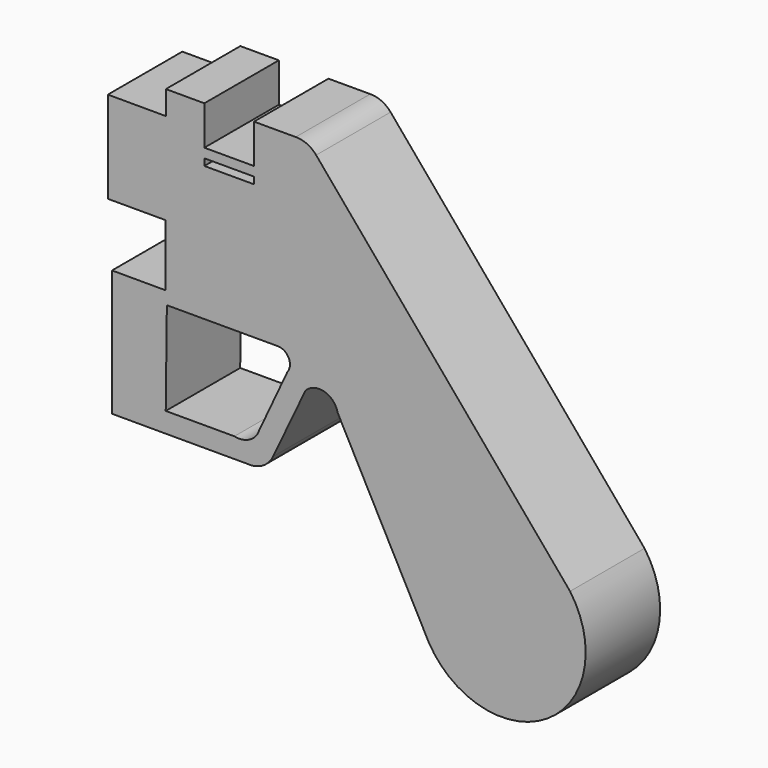
from build123d import *

# Parameters (mm, degrees)
F0_W     = 13.5431550443
F0_H     = 2.539999783
F1_DEPTH = 14.478
F2_DEPTH = 25.4
F3_DEPTH = 15.24


with BuildPart() as f1:
    # F0 (on Front) → F1 (new body)
    with BuildSketch(Plane.XZ):
        with BuildLine():
            Line((-35.7278846204, 60.0338317454), (-46.2333224714, 60.0338317454))
            Line((-46.2333224714, 60.0338317454), (-46.2412260565, 53.5373517857))
            Line((-46.2412260565, 53.5373517857), (-62.0638123778, 53.5566014653))
            Line((-62.0638123778, 53.5566014653), (-62.0638123778, 28.5179335624))
            Line((-62.0638123778, 28.5179335624), (-46.2716645559, 28.5179335624))
            Line((-46.2716645559, 28.5179335624), (-46.2921659325, 11.6664945766))
            Line((-46.2921659325, 11.6664945766), (-60.9269401373, 11.6842991698))
            Line((-60.9269401373, 11.6842991698), (-60.9269401373, -11.473370716))
            Line((-60.9269401373, -11.473370716), (-60.9269401373, -12.8805553541))
            Line((-60.9269401373, -12.8805553541), (-60.9269401373, -22.7496541921))
            Line((-60.9269401373, -22.7496541921), (-46.3340580463, -22.7674078196))
            Line((-46.3340580463, -22.7674078196), (-23.9646863192, -22.7674078196))
            ThreePointArc((-23.9646863192, -22.7674078196), (-19.834707978, -21.8336374971), (-16.9685035944, -18.7169853598))
            Line((-16.9685035944, -18.7169853598), (-8.1312218681, 0))
            ThreePointArc((-8.1312218681, 0), (-3.0133196127, 1.4278545799), (0.6314046332, -2.4383680429))
            Line((0.6314046332, -2.4383680429), (25.4555270076, -49.4676344097))
            ThreePointArc((25.4555270076, -49.4676344097), (57.7549127304, -57.3994035782), (64.0637204051, -24.7442014515))
            Line((64.0637204051, -24.7442014515), (-5.2241440862, 57.5024038553))
            ThreePointArc((-5.2241440862, 57.5024038553), (-7.7229671621, 59.3967704345), (-10.7932919636, 60.0338317454))
            Line((-10.7932919636, 60.0338317454), (-22.1847295761, 60.0338317454))
            Line((-22.1847295761, 60.0338317454), (-22.1847295761, 49.3648834527))
            Line((-22.1847295761, 49.3648834527), (-22.1847295761, 46.8248836696))
            Line((-22.1847295761, 46.8248836696), (-22.1847295761, 44.971819967))
            Line((-22.1847295761, 44.971819967), (-35.7278846204, 44.971819967))
            Line((-35.7278846204, 44.971819967), (-35.7278846204, 46.8248836696))
            Line((-35.7278846204, 46.8248836696), (-35.7278846204, 49.3648834527))
            Line((-35.7278846204, 49.3648834527), (-35.7278846204, 60.0338317454))
        make_face()
        with BuildLine():
            Line((-27.5272410363, -17.2997955233), (-46.2700650096, -17.2997955233))
            Line((-46.2700650096, -17.2997955233), (-45.9628067911, 8.202736266))
            Line((-45.9628067911, 8.202736266), (-15.6977549195, 8.202736266))
            ThreePointArc((-15.6977549195, 8.202736266), (-12.7088773009, 6.3316862366), (-13.0860488862, 2.8256971855))
            Line((-13.0860488862, 2.8256971855), (-21.3820524514, -14.9953495711))
            ThreePointArc((-21.3820524514, -14.9953495711), (-24.1077143058, -17.0727256217), (-27.5272410363, -17.2997955233))
        make_face(mode=Mode.SUBTRACT)
        with Locations((-28.9563070983, 48.0948835611)):
            Rectangle(F0_W, F0_H)
    extrude(amount=F1_DEPTH)

    # F0 (on Front) → F2 (join)
    with BuildSketch(Plane.XZ):
        with BuildLine():
            Line((-35.7278846204, 60.0338317454), (-46.2333224714, 60.0338317454))
            Line((-46.2333224714, 60.0338317454), (-46.2412260565, 53.5373517857))
            Line((-46.2412260565, 53.5373517857), (-62.0638123778, 53.5566014653))
            Line((-62.0638123778, 53.5566014653), (-62.0638123778, 28.5179335624))
            Line((-62.0638123778, 28.5179335624), (-46.2716645559, 28.5179335624))
            Line((-46.2716645559, 28.5179335624), (-46.2921659325, 11.6664945766))
            Line((-46.2921659325, 11.6664945766), (-60.9269401373, 11.6842991698))
            Line((-60.9269401373, 11.6842991698), (-60.9269401373, -11.473370716))
            Line((-60.9269401373, -11.473370716), (-60.9269401373, -12.8805553541))
            Line((-60.9269401373, -12.8805553541), (-60.9269401373, -22.7496541921))
            Line((-60.9269401373, -22.7496541921), (-46.3340580463, -22.7674078196))
            Line((-46.3340580463, -22.7674078196), (-23.9646863192, -22.7674078196))
            ThreePointArc((-23.9646863192, -22.7674078196), (-19.834707978, -21.8336374971), (-16.9685035944, -18.7169853598))
            Line((-16.9685035944, -18.7169853598), (-8.1312218681, 0))
            ThreePointArc((-8.1312218681, 0), (-3.0133196127, 1.4278545799), (0.6314046332, -2.4383680429))
            Line((0.6314046332, -2.4383680429), (25.4555270076, -49.4676344097))
            ThreePointArc((25.4555270076, -49.4676344097), (57.7549127304, -57.3994035782), (64.0637204051, -24.7442014515))
            Line((64.0637204051, -24.7442014515), (-5.2241440862, 57.5024038553))
            ThreePointArc((-5.2241440862, 57.5024038553), (-7.7229671621, 59.3967704345), (-10.7932919636, 60.0338317454))
            Line((-10.7932919636, 60.0338317454), (-22.1847295761, 60.0338317454))
            Line((-22.1847295761, 60.0338317454), (-22.1847295761, 49.3648834527))
            Line((-22.1847295761, 49.3648834527), (-22.1847295761, 46.8248836696))
            Line((-22.1847295761, 46.8248836696), (-22.1847295761, 44.971819967))
            Line((-22.1847295761, 44.971819967), (-35.7278846204, 44.971819967))
            Line((-35.7278846204, 44.971819967), (-35.7278846204, 46.8248836696))
            Line((-35.7278846204, 46.8248836696), (-35.7278846204, 49.3648834527))
            Line((-35.7278846204, 49.3648834527), (-35.7278846204, 60.0338317454))
        make_face()
        with BuildLine():
            Line((-27.5272410363, -17.2997955233), (-46.2700650096, -17.2997955233))
            Line((-46.2700650096, -17.2997955233), (-45.9628067911, 8.202736266))
            Line((-45.9628067911, 8.202736266), (-15.6977549195, 8.202736266))
            ThreePointArc((-15.6977549195, 8.202736266), (-12.7088773009, 6.3316862366), (-13.0860488862, 2.8256971855))
            Line((-13.0860488862, 2.8256971855), (-21.3820524514, -14.9953495711))
            ThreePointArc((-21.3820524514, -14.9953495711), (-24.1077143058, -17.0727256217), (-27.5272410363, -17.2997955233))
        make_face(mode=Mode.SUBTRACT)
        with Locations((-28.9563070983, 48.0948835611)):
            Rectangle(F0_W, F0_H)
    extrude(amount=F2_DEPTH)

    # F0 (on Front) → F3 (join)
    with BuildSketch(Plane.XZ):
        with Locations((-28.9563070983, 48.0948835611)):
            Rectangle(F0_W, F0_H)
    extrude(amount=F3_DEPTH)


solid = f1.part
